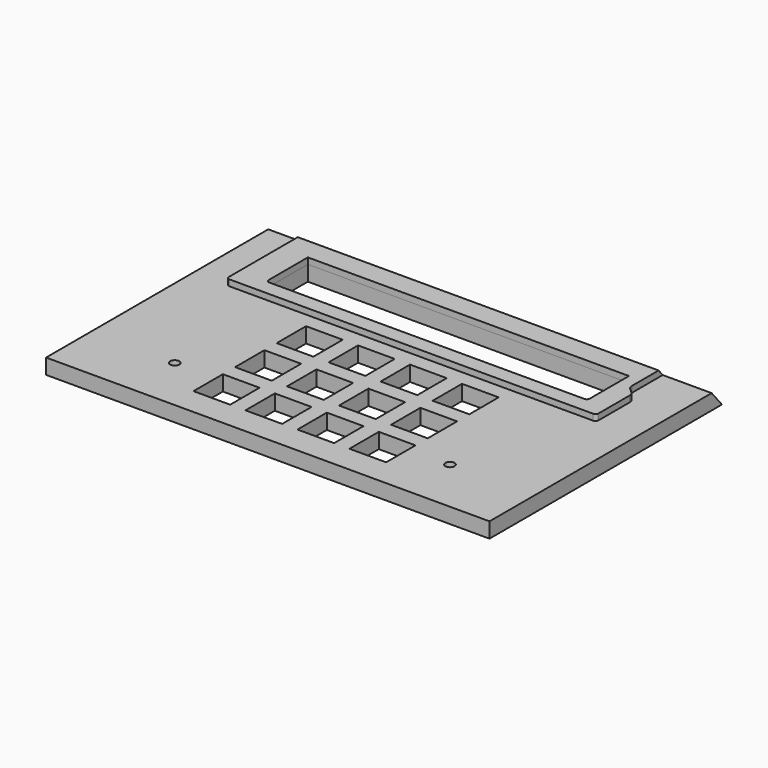
from build123d import *

# Parameters (mm, degrees)
F0_W     = 145
F0_H     = 95
F0_R     = 1.5
F0_W_2   = 12
F0_H_2   = 12
F0_W_3   = 105
F0_H_3   = 17
F1_DEPTH = 5
F3_DEPTH = 2
F5_DEPTH = 200


with BuildPart() as f1:
    # F0 (on Top) → F1 (new body)
    with BuildSketch(Plane.XY):
        with Locations((72.5, -47.5)):
            Rectangle(F0_W, F0_H)
        with Locations((27.5, -76.787904)):
            Circle(F0_R, mode=Mode.SUBTRACT)
        with Locations((47, -80)):
            Rectangle(F0_W_2, F0_H_2, mode=Mode.SUBTRACT)
        with Locations((64, -80)):
            Rectangle(F0_W_2, F0_H_2, mode=Mode.SUBTRACT)
        with Locations((47, -63)):
            Rectangle(F0_W_2, F0_H_2, mode=Mode.SUBTRACT)
        with Locations((64, -63)):
            Rectangle(F0_W_2, F0_H_2, mode=Mode.SUBTRACT)
        with Locations((81, -80)):
            Rectangle(F0_W_2, F0_H_2, mode=Mode.SUBTRACT)
        with Locations((98, -80)):
            Rectangle(F0_W_2, F0_H_2, mode=Mode.SUBTRACT)
        with Locations((117.5, -76.787904)):
            Circle(F0_R, mode=Mode.SUBTRACT)
        with Locations((81, -63)):
            Rectangle(F0_W_2, F0_H_2, mode=Mode.SUBTRACT)
        with Locations((98, -63)):
            Rectangle(F0_W_2, F0_H_2, mode=Mode.SUBTRACT)
        with Locations((47, -46)):
            Rectangle(F0_W_2, F0_H_2, mode=Mode.SUBTRACT)
        with Locations((64, -46)):
            Rectangle(F0_W_2, F0_H_2, mode=Mode.SUBTRACT)
        with Locations((81, -46)):
            Rectangle(F0_W_2, F0_H_2, mode=Mode.SUBTRACT)
        with Locations((98, -46)):
            Rectangle(F0_W_2, F0_H_2, mode=Mode.SUBTRACT)
        with Locations((72.5, -21.5)):
            Rectangle(F0_W_3, F0_H_3, mode=Mode.SUBTRACT)
    extrude(amount=-F1_DEPTH)

    # F2 (on Top) → F3 (join)
    with BuildSketch(Plane.XY):
        with BuildLine():
            Line((129, 0), (11, 0))
            Line((11, 0), (11, -34))
            ThreePointArc((11, -34), (11.292893, -34.707107), (12, -35))
            Line((12, -35), (130.863056, -35))
            ThreePointArc((130.863056, -35), (131.570163, -34.707107), (131.863056, -34))
            Line((131.863056, -34), (131.863056, -21.256752))
            ThreePointArc((131.863056, -21.256752), (131.699365, -20.464306), (131.235085, -19.801577))
            Line((131.235085, -19.801577), (129.627971, -18.286291))
            ThreePointArc((129.627971, -18.286291), (129.163691, -17.623561), (129, -16.831115))
            Line((129, -16.831115), (129, 0))
        make_face()
        with BuildLine():
            Line((20.000057, -28.999976), (20.000057, -12.999976))
            Line((20.000057, -12.999976), (125.000057, -12.999976))
            Line((125.000057, -12.999976), (125.000057, -28.999976))
            ThreePointArc((125.000057, -28.999976), (124.707164, -29.707083), (124.000057, -29.999976))
            Line((124.000057, -29.999976), (21.000057, -29.999976))
            ThreePointArc((21.000057, -29.999976), (20.292951, -29.707083), (20.000057, -28.999976))
        make_face(mode=Mode.SUBTRACT)
    extrude(amount=F3_DEPTH)

    # F4 (on face) → F5 (cut)
    with BuildSketch(Plane(origin=(0, 0, 0), x_dir=(0, -1, 0), z_dir=(-1, 0, 0))):
        Polygon((0, 5), (0, -5), (8.390996, 5), align=None)
    extrude(amount=-F5_DEPTH, mode=Mode.SUBTRACT)


solid = f1.part
